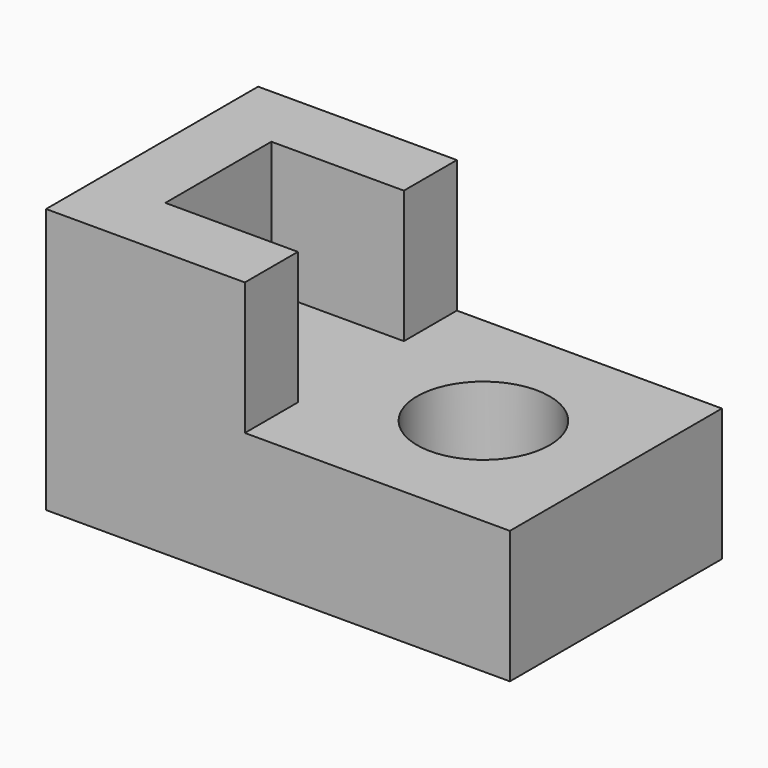
from build123d import *

# Parameters (mm, degrees)
F1_DEPTH = 40
F2_W     = 20
F2_H     = 20
F3_DEPTH = 20
F4_R     = 10
F5_DEPTH = 20


with BuildPart() as f1:
    # F0 (on Front) → F1 (new body)
    with BuildSketch(Plane.XZ):
        Polygon((-26.586315, 18.18695), (-36.586315, 18.18695), (-36.586315, -21.81305), (33.413685, -21.81305), (33.413685, -1.81305), (-6.586315, -1.81305), align=None)
        Polygon((-6.586315, 18.18695), (-26.586315, 18.18695), (-6.586315, -1.81305), align=None)
    extrude(amount=F1_DEPTH)

    # F2 (on face) → F3 (cut)
    with BuildSketch(Plane.XY.offset(18.18695)):
        with Locations((-16.586315, -20)):
            Rectangle(F2_W, F2_H)
    extrude(amount=-F3_DEPTH, mode=Mode.SUBTRACT)

    # F4 (on face) → F5 (cut)
    with BuildSketch(Plane.XY.offset(-1.81305)):
        with Locations((13.413685, -20)):
            Circle(F4_R)
    extrude(amount=-F5_DEPTH, mode=Mode.SUBTRACT)


solid = f1.part
